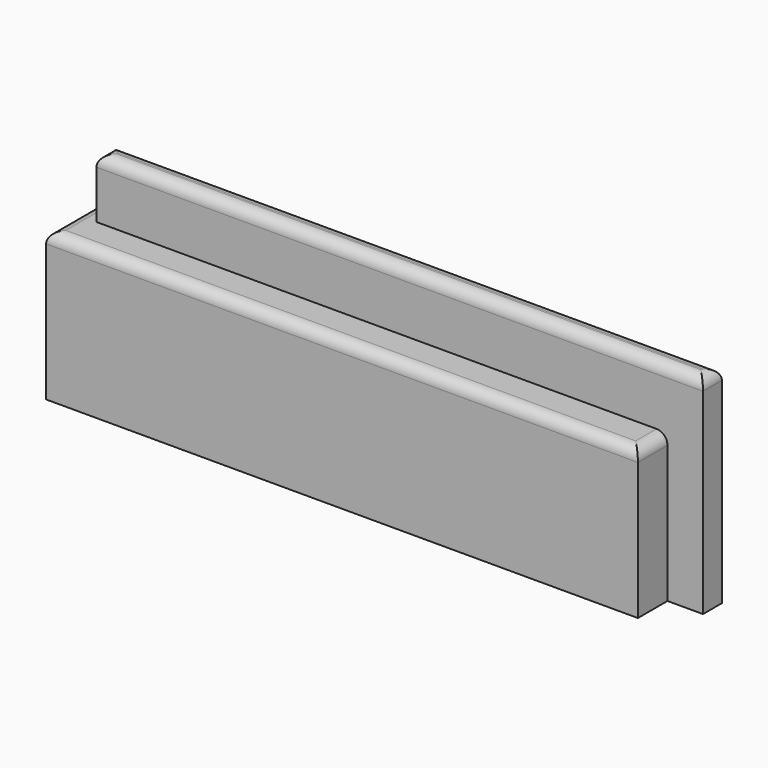
from build123d import *

# Parameters (mm, degrees)
F0_W     = 200
F0_H     = 50
F1_DEPTH = 12.5
F2_W     = 205
F2_H     = 70
F3_DEPTH = 8
F4_R     = 3.7
F4_2_R   = 3.7


with BuildPart() as f1:
    # F0 (on Front) → F1 (new body, symmetric)
    with BuildSketch(Plane.XZ):
        Rectangle(F0_W, F0_H)
    extrude(amount=F1_DEPTH, both=True)

    # F4#2
    f4_2_edges = [f1.edges().sort_by_distance(p)[0] for p in [
        (100, 0, 25),
        (0, 12.5, 25),
        (-100, 0, 25),
        (0, -12.5, 25),
    ]]
    fillet(f4_2_edges, radius=F4_2_R)


with BuildPart() as f3:
    # F2 (on Front) → F3 (new body)
    with BuildSketch(Plane.XZ):
        with Locations((9.5, 10)):
            Rectangle(F2_W, F2_H)
    extrude(amount=-F3_DEPTH)

    # F4
    f4_edges = [f3.edges().sort_by_distance(p)[0] for p in [
        (112, 4, 45),
        (-93, 4, 45),
        (9.5, 0, 45),
        (9.5, 8, 45),
    ]]
    fillet(f4_edges, radius=F4_R)


solid = Compound([f1.part, f3.part])
